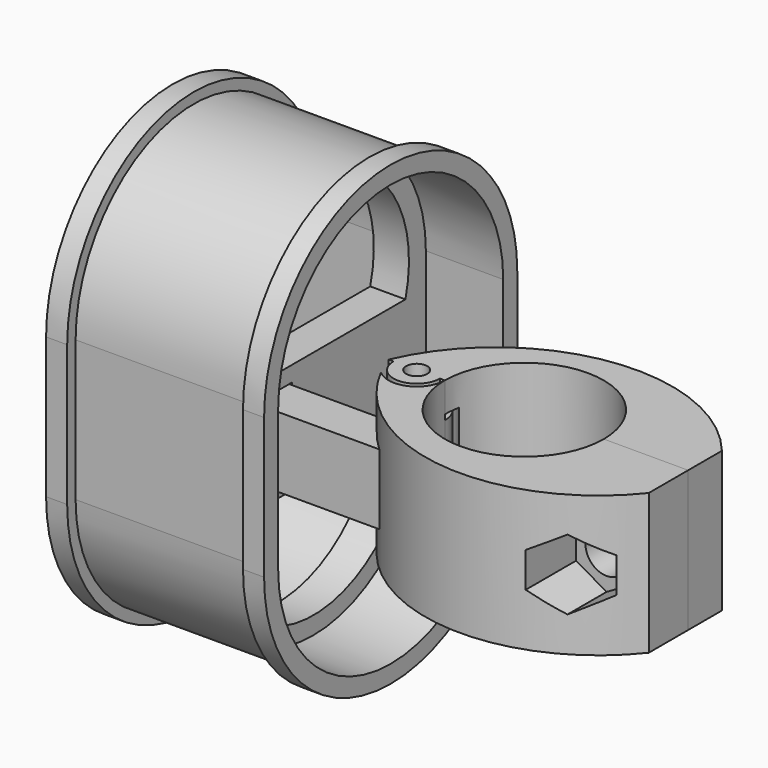
from build123d import *

# Parameters (mm, degrees)
SKETCH_R        = 1.5
PAD_DEPTH       = 10
SKETCH001_R     = 4
POCKET_DEPTH    = 5
SKETCH002_R     = 4
POCKET001_DEPTH = 5
POCKET002_DEPTH = 25
SKETCH004_R     = 3
POCKET003_DEPTH = 15
SKETCH005_W     = 28
SKETCH005_H     = 6
PAD001_DEPTH    = 5
SKETCH006_R     = 1.5
PAD002_DEPTH    = 10
SKETCH007_R     = 4.5
POCKET004_DEPTH = 5.75
SKETCH008_R     = 3
POCKET005_DEPTH = 15
SKETCH009_R     = 5
POCKET006_DEPTH = 20
PAD003_DEPTH    = 3
PAD004_DEPTH    = 25
PAD005_DEPTH    = 3
SKETCH013_W     = 6.5
SKETCH013_H     = 10.5
PAD006_DEPTH    = 5


with BuildPart() as obj1:
    # Sketch → Pad (new body, symmetric)
    with BuildSketch(Plane.XY):
        with BuildLine():
            ThreePointArc((-11.3, 0), (0, -11.3), (11.3, 0))
            Line((11.3, 0), (23.3, 0))
            Line((23.3, 0), (23.3, -7))
            ThreePointArc((-19.3, 0), (-0.06232, -16.050688), (23.3, -7))
            ThreePointArc((-11.3, 0), (-15.3, 4), (-19.3, 0))
        make_face()
        with Locations((-15.3, 0)):
            Circle(SKETCH_R, mode=Mode.SUBTRACT)
    extrude(amount=PAD_DEPTH, both=True)

    # Sketch001 → Pocket (cut)
    with BuildSketch(Plane.XY.offset(10)):
        with Locations((-15.3, 0)):
            Circle(SKETCH001_R)
    extrude(amount=-POCKET_DEPTH, mode=Mode.SUBTRACT)

    # Sketch002 → Pocket001 (cut)
    with BuildSketch(Plane.XY.offset(-10)):
        with Locations((-15.3, 0)):
            Circle(SKETCH002_R)
    extrude(amount=POCKET001_DEPTH, mode=Mode.SUBTRACT)

    # Sketch003 → Pocket002 (cut)
    with BuildSketch(Plane.XZ.offset(6)):
        Polygon((12.169873, -2.5), (16.5, -5), (20.830127, -2.5), (20.830127, 2.5), (16.5, 5), (12.169873, 2.5), align=None)
    extrude(amount=POCKET002_DEPTH, mode=Mode.SUBTRACT)

    # Sketch004 → Pocket003 (cut)
    with BuildSketch(Plane.XZ):
        with Locations((16.5, 0)):
            Circle(SKETCH004_R)
    extrude(amount=POCKET003_DEPTH, mode=Mode.SUBTRACT)

    # Sketch005 → Pad001 (join, symmetric)
    with BuildSketch(Plane.XY):
        with Locations((-26, -7)):
            Rectangle(SKETCH005_W, SKETCH005_H)
    extrude(amount=PAD001_DEPTH, both=True)


with BuildPart() as obj2:
    # Sketch006 → Pad002 (new body, symmetric)
    with BuildSketch(Plane.XY):
        with BuildLine():
            ThreePointArc((11.3, 0), (0, 11.3), (-11.3, 0))
            Line((-11.3, 0), (-12, 0))
            ThreePointArc((-18.6, 0), (-15.3, -3.3), (-12, 0))
            Line((-18.6, 0), (-19.3, 0))
            ThreePointArc((23.3, 6), (0.308936, 15.006556), (-19.3, 0))
            Line((23.3, 0), (23.3, 6))
            Line((11.3, 0), (23.3, 0))
        make_face()
        with Locations((-15.3, 0)):
            Circle(SKETCH006_R, mode=Mode.SUBTRACT)
    extrude(amount=PAD002_DEPTH, both=True)

    # Sketch007 → Pocket004 (cut, symmetric)
    with BuildSketch(Plane.XY):
        with Locations((-15, 0)):
            Circle(SKETCH007_R)
    extrude(amount=POCKET004_DEPTH, both=True, mode=Mode.SUBTRACT)

    # Sketch008 → Pocket005 (cut)
    with BuildSketch(Plane.XZ):
        with Locations((16.5, 0)):
            Circle(SKETCH008_R)
    extrude(amount=-POCKET005_DEPTH, mode=Mode.SUBTRACT)

    # Sketch009 → Pocket006 (cut)
    with BuildSketch(Plane.XZ.offset(-5)):
        with Locations((16.5, 0)):
            Circle(SKETCH009_R)
    extrude(amount=-POCKET006_DEPTH, mode=Mode.SUBTRACT)


with BuildPart() as obj3:
    # Sketch010 → Pad003 (new body)
    with BuildSketch(Plane.YZ.offset(-70)):
        with BuildLine():
            ThreePointArc((-22.5, -8), (0, -30.5), (22.5, -8))
            Line((22.5, -8), (22.5, 12))
            ThreePointArc((22.5, 12), (0, 34.5), (-22.5, 12))
            Line((-22.5, 12), (-22.5, -8))
        make_face()
        with BuildLine():
            ThreePointArc((-20, -8), (0, -28), (20, -8))
            Line((20, -8), (20, 12))
            ThreePointArc((20, 12), (0, 32), (-20, 12))
            Line((-20, 12), (-20, -8))
        make_face(mode=Mode.SUBTRACT)
    extrude(amount=PAD003_DEPTH)

    # Sketch011 → Pad004 (join)
    with BuildSketch(Plane.YZ.offset(-67)):
        with BuildLine():
            ThreePointArc((-21, -8), (0, -29), (21, -8))
            Line((21, -8), (21, 12))
            ThreePointArc((21, 12), (0, 33), (-21, 12))
            Line((-21, 12), (-21, -8))
        make_face()
        with BuildLine():
            ThreePointArc((-20, -8), (0, -28), (20, -8))
            Line((20, -8), (20, 12))
            ThreePointArc((20, 12), (0, 32), (-20, 12))
            Line((-20, 12), (-20, -8))
        make_face(mode=Mode.SUBTRACT)
    extrude(amount=PAD004_DEPTH)

    # Sketch012 → Pad005 (join)
    with BuildSketch(Plane.YZ.offset(-42)):
        with BuildLine():
            ThreePointArc((-22.5, -8), (0, -30.5), (22.5, -8))
            Line((22.5, -8), (22.5, 12))
            ThreePointArc((22.5, 12), (0, 34.5), (-22.5, 12))
            Line((-22.5, 12), (-22.5, -8))
        make_face()
        with BuildLine():
            ThreePointArc((-20, -8), (0, -28), (20, -8))
            Line((20, -8), (20, 12))
            ThreePointArc((20, 12), (0, 32), (-20, 12))
            Line((-20, 12), (-20, -8))
        make_face(mode=Mode.SUBTRACT)
    extrude(amount=PAD005_DEPTH)

    # Sketch013 → Pad006 (join)
    with BuildSketch(Plane.YZ.offset(-50)):
        with BuildLine():
            ThreePointArc((-20, -8), (0, -28), (20, -8))
            Line((20, -8), (20, 12))
            ThreePointArc((20, 12), (0, 32), (-20, 12))
            Line((-20, 12), (-20, -8))
        make_face()
        with Locations((-7.05, -0.05)):
            Rectangle(SKETCH013_W, SKETCH013_H, mode=Mode.SUBTRACT)
        with BuildLine():
            Line((-17.497246, -8.310465), (17.497246, -8.310465))
            ThreePointArc((-17.497246, -8.310465), (0, -25.5), (17.497246, -8.310465))
        make_face(mode=Mode.SUBTRACT)
        with BuildLine():
            ThreePointArc((16.366596, 7.402769), (0, 29), (-16.366596, 7.402769))
            Line((-16.366596, 7.402769), (16.366596, 7.402769))
        make_face(mode=Mode.SUBTRACT)
    extrude(amount=-PAD006_DEPTH)


with BuildPart() as obj3_1:
    # Body002 placement: moved
    add(obj3.part.moved(Location((20, 0, 0))))


solid = Compound([obj1.part, obj2.part, obj3_1.part])
